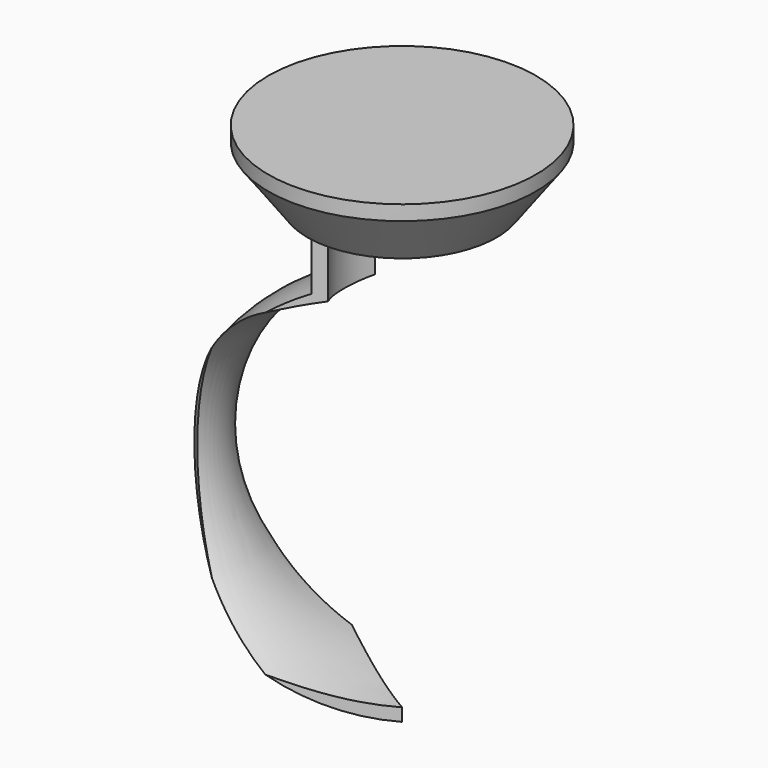
from build123d import *

# Parameters (mm, degrees)
F1_ANGLE_BACK = 30
F1_ANGLE      = 60
F2_ANGLE_BACK = 90
F2_ANGLE      = 180
F4_DEPTH      = 25
F6_DEPTH      = 136.7
F7_DEPTH      = 138.9


with BuildPart() as f1:
    # F0 (on Front) → F1 (revolve)
    with BuildSketch(Plane.XZ, mode=Mode.PRIVATE) as f1_sk:
        with BuildLine():
            ThreePointArc((48.4112013771, 54.8701588919), (11.7831625244, -12.1855836872), (70.7, -60.8362990457))
            Line((70.7, -60.8362990457), (70.7, -56.8362990457))
            ThreePointArc((70.7, -56.8362990457), (14.7, -0.8362990457), (70.7, 55.1637009543))
            Line((70.7, 55.1637009543), (70.7, 75.0598162413))
            Line((70.7, 75.0598162413), (48.4112013771, 75.0598162413))
            Line((48.4112013771, 75.0598162413), (48.4112013771, 54.8701588919))
        make_face()
    revolve(f1_sk.sketch.rotate(Axis((70.7, 0, -6.8408441078), (0, 0, -1)), -F1_ANGLE_BACK), axis=Axis((70.7, 0, -6.8408441078), (0, 0, -1)), revolution_arc=F1_ANGLE)

    # F0 (on Front) → F2 (revolve, cut)
    with BuildSketch(Plane.XZ, mode=Mode.PRIVATE) as f2_sk:
        with BuildLine():
            ThreePointArc((70.7, 55.1637009543), (14.7, -0.8362990457), (70.7, -56.8362990457))
            Line((70.7, -56.8362990457), (70.7, 55.1637009543))
        make_face()
    revolve(f2_sk.sketch.rotate(Axis((0, 0, -6.8408441078), (0, 0, -1)), -F2_ANGLE_BACK), axis=Axis((0, 0, -6.8408441078), (0, 0, -1)), revolution_arc=F2_ANGLE, mode=Mode.SUBTRACT)

    # F3 (on face) → F4 (cut)
    with BuildSketch(Plane.XY.offset(75.0598162413)):
        with BuildLine():
            Line((70.7, 0), (54.9228646211, 9.1089333581))
            ThreePointArc((54.9228646211, 9.1089333581), (52.4821332839, 0), (54.9228646211, -9.1089333581))
            Line((54.9228646211, -9.1089333581), (70.7, 0))
        make_face()
    extrude(amount=-F4_DEPTH, mode=Mode.SUBTRACT)

    # F3 (on face) → F6 (cut)
    with BuildSketch(Plane.XY.offset(75.0598162413)):
        Polygon((0, -41.7985990644), (35.7692913455, -20.651409987), (0, 0), align=None)
    extrude(amount=-F6_DEPTH, mode=Mode.SUBTRACT)

    # F3 (on face) → F7 (cut)
    with BuildSketch(Plane.XY.offset(75.0598162413)):
        Polygon((0, 0), (34.9307086545, 20.651409987), (0, 40.8186640317), align=None)
    extrude(amount=-F7_DEPTH, mode=Mode.SUBTRACT)


with BuildPart() as f5:
    # F0 (on Front) → F5 (revolve)
    with BuildSketch(Plane.XZ):
        Polygon((41.197296232, 81.67220675), (48.4112013771, 81.67220675), (48.4112013771, 91.6008278728), (70.7, 91.6008278728), (70.7, 98.2664600015), (70.7, 102.8953716159), (28.9769750088, 102.8953716159), (28.9769750088, 98.2664600015), align=None)
    revolve(axis=Axis((70.7, 0, -6.8408441078), (0, 0, -1)))


solid = Compound([f1.part, f5.part])
